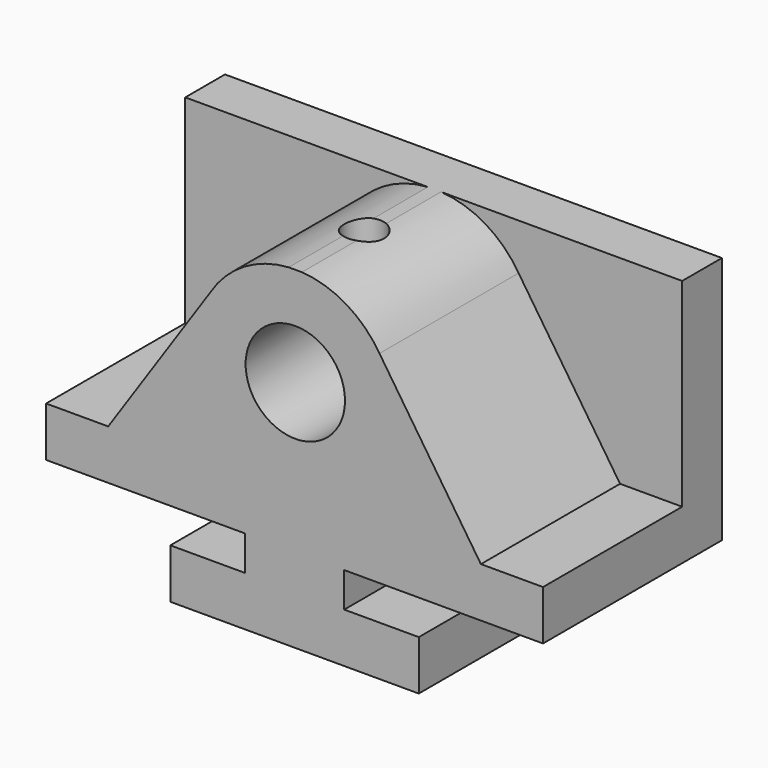
from build123d import *

# Parameters (mm, degrees)
F1_DEPTH = 57.15
F3_START = 12.7
F2_R     = 12.7
F3_DEPTH = 44.45
F5_START = 48.52348
F4_R     = 5.08
F5_DEPTH = 42.4313


with BuildPart() as f1:
    # F0 (on Front) → F1 (new body)
    with BuildSketch(Plane.XZ):
        Polygon((95.25, -8.89), (76.2, -8.89), (76.2, 0), (127, 0), (127, 63.5), (0, 63.5), (0, 0), (50.8, 0), (50.8, -8.89), (31.75, -8.89), (31.75, -21.59), (95.25, -21.59), align=None)
    extrude(amount=F1_DEPTH)

    # F2 (on Front) → F3 (cut)
    with BuildSketch(Plane.XZ.offset(F3_START)):
        with BuildLine():
            Line((127, 63.5), (65.383924195, 63.5))
            ThreePointArc((65.383924195, 63.5), (76.7139126522, 59.9653925056), (85.2011344437, 51.6690586863))
            Line((85.2011344437, 51.6690586863), (111.125, 12.7))
            Line((111.125, 12.7), (127, 12.7))
            Line((127, 12.7), (127, 63.5))
        make_face()
        with BuildLine():
            ThreePointArc((65.383924195, 63.5), (63.693806529, 63.5562926494), (62.0036888631, 63.5))
            Line((62.0036888631, 63.5), (65.383924195, 63.5))
        make_face()
        with BuildLine():
            Line((62.0036888631, 63.5), (0, 63.5))
            Line((0, 63.5), (0, 12.7))
            Line((0, 12.7), (15.875, 12.7))
            Line((15.875, 12.7), (42.0723728562, 51.485718966))
            ThreePointArc((42.0723728562, 51.485718966), (50.5811087271, 59.9098476773), (62.0036888631, 63.5))
        make_face()
        with Locations((63.693806529, 38.1562926494)):
            Circle(F2_R)
    extrude(amount=F3_DEPTH, mode=Mode.SUBTRACT)

    # F4 (on Top) → F5 (cut)
    with BuildSketch(Plane.XY.offset(F5_START)):
        with Locations((63.5088086128, -34.925)):
            Circle(F4_R)
    extrude(amount=F5_DEPTH, mode=Mode.SUBTRACT)


solid = f1.part
